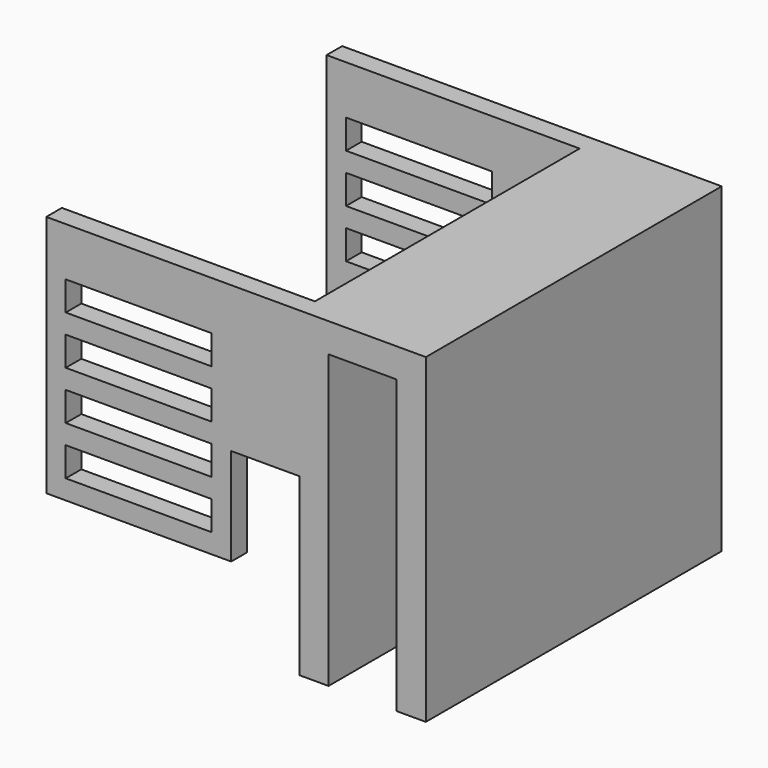
from build123d import *

# Parameters (mm, degrees)
PAD_DEPTH    = 38
SKETCH001_W  = 15
SKETCH001_H  = 2
PAD001_DEPTH = 26
SKETCH002_W  = 19
SKETCH002_H  = 2
PAD002_DEPTH = 10
SKETCH003_W  = 15
SKETCH003_H  = 3
POCKET_DEPTH = 40


with BuildPart() as part:
    # Sketch → Pad (new body)
    with BuildSketch(Plane.XZ):
        Polygon((0, 0), (0, 33), (13, 33), (13, 0), (10, 0), (10, 30), (3, 30), (3, 0), align=None)
    extrude(amount=PAD_DEPTH)

    # Sketch001 (on Face1 of Pad) → Pad001 (join)
    with BuildSketch(Plane(origin=(0, 0, 0), x_dir=(0, 0, -1), z_dir=(-1, 0, 0))):
        with Locations((-25.5, 37)):
            Rectangle(SKETCH001_W, SKETCH001_H)
        with Locations((-25.5, 1)):
            Rectangle(SKETCH001_W, SKETCH001_H)
    extrude(amount=PAD001_DEPTH)

    # Sketch002 (on Face7 of Pad001) → Pad002 (join)
    with BuildSketch(Plane(origin=(0, 0, 18), x_dir=(1, 0, 0), z_dir=(0, 0, -1))):
        with Locations((-16.5, 37)):
            Rectangle(SKETCH002_W, SKETCH002_H)
        with Locations((-16.5, 1)):
            Rectangle(SKETCH002_W, SKETCH002_H)
    extrude(amount=PAD002_DEPTH)

    # Sketch003 (on Face30 of Pad002) → Pocket (cut)
    with BuildSketch(Plane.XZ.offset(38)):
        with Locations((-16.5, 11.5)):
            Rectangle(SKETCH003_W, SKETCH003_H)
        with Locations((-16.5, 16.5)):
            Rectangle(SKETCH003_W, SKETCH003_H)
        with Locations((-16.5, 21.5)):
            Rectangle(SKETCH003_W, SKETCH003_H)
        with Locations((-16.5, 26.5)):
            Rectangle(SKETCH003_W, SKETCH003_H)
    extrude(amount=-POCKET_DEPTH, mode=Mode.SUBTRACT)


solid = part.part
